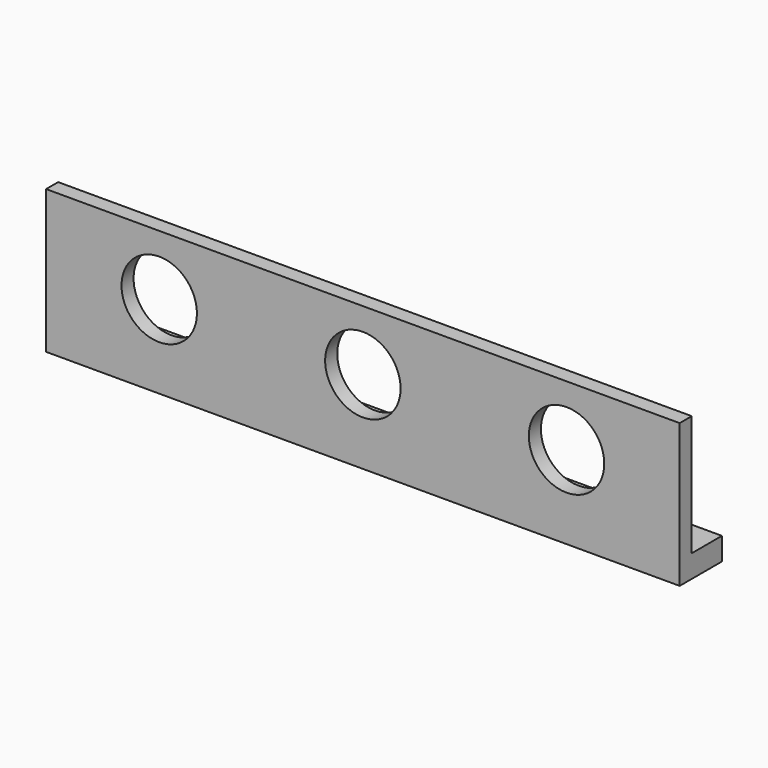
from build123d import *

# Parameters (mm, degrees)
F0_W     = 84
F0_H     = 16
F0_R     = 5
F0_H_2   = 3
F1_DEPTH = 2
F2_W     = 84
F2_H     = 3
F3_DEPTH = 5


with BuildPart() as f1:
    # F0 (on Front) → F1 (new body)
    with BuildSketch(Plane.XZ):
        Rectangle(F0_W, F0_H)
        with Locations((-27, 0)):
            Circle(F0_R, mode=Mode.SUBTRACT)
        Circle(F0_R, mode=Mode.SUBTRACT)
        with Locations((27, 0)):
            Circle(F0_R, mode=Mode.SUBTRACT)
        with Locations((0, -9.5)):
            Rectangle(F0_W, F0_H_2)
    extrude(amount=F1_DEPTH)

    # F2 (on face) → F3 (join)
    with BuildSketch(Plane(origin=(0, 0, 0), x_dir=(-1, 0, 0), z_dir=(0, 1, 0))):
        with Locations((0, -9.5)):
            Rectangle(F2_W, F2_H)
    extrude(amount=F3_DEPTH)


solid = f1.part
